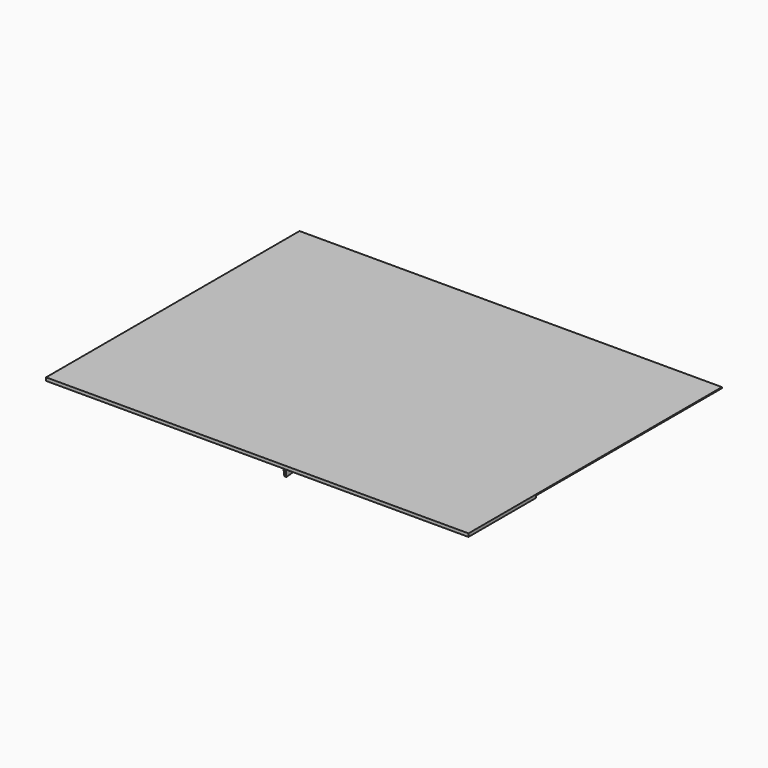
from build123d import *

# Parameters (mm, degrees)
F0_W     = 2000
F0_H     = 1500
F1_DEPTH = 5
F2_W     = 2000
F2_H     = 400
F3_DEPTH = 10
F5_DEPTH = 10


with BuildPart() as f1:
    # F0 (on Top) → F1 (new body)
    with BuildSketch(Plane.XY):
        with Locations((0, -250)):
            Rectangle(F0_W, F0_H)
    extrude(amount=-F1_DEPTH)

    # F2 (on face) → F3 (join)
    with BuildSketch(Plane(origin=(0, 0, -5), x_dir=(1, 0, 0), z_dir=(0, 0, -1))):
        with Locations((0, 800)):
            Rectangle(F2_W, F2_H)
    extrude(amount=F3_DEPTH)

    # F4 (on Right) → F5 (join)
    with BuildSketch(Plane.YZ):
        Polygon((-600, -15), (-860, -15), (-840, -152.4), (500, -5), (-600, -5), align=None)
    extrude(amount=F5_DEPTH)


solid = f1.part
